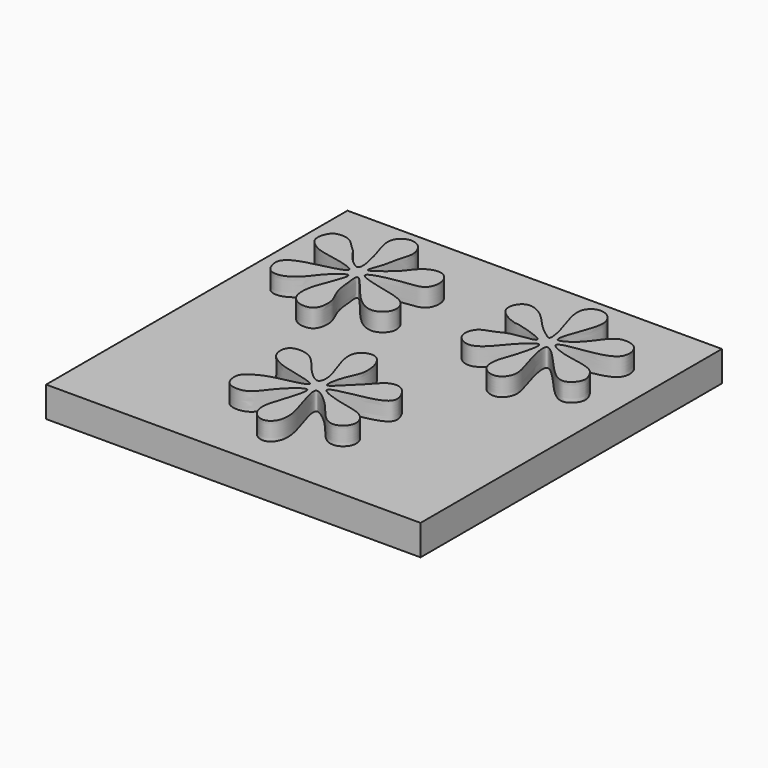
from build123d import *

# Parameters (mm, degrees)
F0_W     = 61.6686008871
F0_H     = 62.0375014842
F1_DEPTH = 5
F3_DEPTH = 3


with BuildPart() as f1:
    # F0 (on Top) → F1 (new body)
    with BuildSketch(Plane.XY):
        with Locations((30.8343004435, 31.0187507421)):
            Rectangle(F0_W, F0_H)
    extrude(amount=F1_DEPTH)

    # F2 (on face) → F3 (join)
    with BuildSketch(Plane.XY.offset(5)):
        with BuildLine():
            add(Edge.make_bspline(
                [(30.2610378712, 18.1788317859), (30.6694376326, 18.3033293103), (30.8441409658, 20.2758487663), (29.436081421, 23.352330329), (28.6371290629, 26.7499078904), (30.1595447152, 28.2024718596), (32.0780980909, 28.3185846369), (33.4174649075, 26.1726571117), (33.5509699835, 23.133562164), (32.1471394579, 21.0665799202), (31.3917621074, 16.8596318665), (33.8152036854, 19.5222808589), (35.9483952613, 21.4357948241), (37.4724454586, 23.4777961557), (39.5340053974, 23.6710773519), (40.8962205835, 22.3894607415), (41.9606208751, 19.5909139481), (38.0360868934, 18.2246613327), (30.6077797037, 17.2297730798), (36.130755049, 15.1684681823), (39.8393223356, 14.7135290076), (41.3898818155, 13.1066233913), (41.5093227228, 11.2932205819), (40.178353632, 9.909838774), (38.2696127607, 9.8828763223), (36.40930663, 11.8386461155), (34.9227457268, 13.9347784432), (31.0762623841, 17.0569034394), (32.1221585048, 13.1947076675), (33.0010019074, 10.6138208786), (33.5708820848, 8.1480670262), (33.1862163447, 6.1750983877), (31.7989409124, 5.0138216146), (29.9565174869, 5.6521023886), (28.8992738324, 7.546711614), (29.4730432127, 10.4288726392), (32.007861684, 17.2304890096), (27.0654947466, 13.0256967026), (25.329408206, 9.6976236146), (21.6587640814, 9.9497959827), (21.0575608149, 12.059671937), (21.2388508432, 13.5324112384), (23.8855215003, 15.0582492532), (26.1989429716, 15.6250449492), (32.2376696547, 16.854106023), (25.1132989962, 18.2314945126), (23.0041909087, 19.0573989907), (21.0950001205, 20.4787945343), (21.1262207767, 23.5599515708), (25.1978553485, 23.4983809184), (27.1539755122, 20.3735051578), (29.69504184, 18.0062922515), (30.2610378712, 18.1788317859)],
                knots=[0, 0, 0, 0, 0.0162899685, 0.0400126991, 0.0620631981, 0.0782630245, 0.0937852343, 0.1122067008, 0.1328629213, 0.1535628453, 0.1738203689, 0.1916241935, 0.2139401904, 0.2329258924, 0.2490800694, 0.2654928029, 0.283733027, 0.3079920842, 0.3359257802, 0.3584117467, 0.3835901545, 0.4005700893, 0.4160980359, 0.4320867288, 0.4479046246, 0.4670849494, 0.4886810702, 0.51077947, 0.5295966746, 0.5513883444, 0.5705503931, 0.5874463719, 0.6026671499, 0.6185443811, 0.6352225373, 0.6577141697, 0.6843723004, 0.7082668288, 0.7330880095, 0.7535314818, 0.7701957358, 0.7843394506, 0.8043631048, 0.8258885351, 0.8486634668, 0.8749619495, 0.8955815317, 0.913316487, 0.9316375359, 0.9527372188, 0.97742394, 1, 1, 1, 1], degree=3))
        make_face()
        with BuildLine():
            add(Edge.make_bspline(
                [(16.2161290646, 43.8556484878), (15.9169376857, 43.8058901334), (16.2063753053, 41.5988475719), (16.4889942075, 38.9923889295), (18.0247508516, 36.6871767793), (17.6138988853, 33.6362007331), (15.8889181393, 33.221309854), (14.3162362862, 33.5558083395), (12.904410524, 35.1434446875), (13.193423289, 38.2311162727), (14.2486092827, 40.6897743425), (15.6501682778, 44.590588523), (12.7437178835, 42.3435166181), (11.5271196433, 40.7933453625), (10.5984480729, 39.533467913), (8.4865141391, 37.8787902716), (6.3088047241, 38.04432193), (5.4797400027, 39.4183485085), (5.2174372547, 41.1057239061), (6.4525168974, 42.3551774816), (8.9274603133, 43.1181843798), (10.9253795313, 43.57637312), (15.5970344792, 44.749606371), (10.8996785535, 46.2079593207), (7.6600213804, 46.4345884232), (4.7517985871, 48.5332163496), (5.6292442987, 51.0907075478), (6.6815261768, 51.8210967819), (8.8950881682, 51.628474744), (9.9612462911, 50.2581359416), (11.2235776179, 49.3070510545), (11.8713757, 47.9671691237), (15.2221585513, 44.7271882441), (14.3797826213, 49.3824027866), (13.5211768205, 51.7389960211), (12.8248310321, 54.2133048509), (13.6711605885, 55.7501971942), (14.936643807, 56.2878953676), (16.1882875887, 56.0707873648), (17.0982998907, 55.3452925522), (18.0494205928, 53.4812502554), (17.0185817302, 51.024287944), (16.8145724366, 48.5013128582), (15.2905544458, 45.3587193461), (18.3386810351, 47.621621725), (19.8290967891, 49.0443907459), (21.1676172461, 51.111425454), (23.8948844736, 52.0409510069), (25.7741205114, 50.0617295024), (25.2174788334, 46.6797633233), (21.900157081, 46.6919505346), (14.8376138268, 45.1814878791), (19.2532801832, 43.5879738153), (24.424878501, 42.721235861), (25.6031363267, 40.9623643561), (25.7104311152, 39.0976546735), (23.5233980641, 37.2721318853), (20.043636041, 38.950363771), (16.7369819856, 43.9422712519), (16.2161290646, 43.8556484878)],
                knots=[0, 0, 0, 0, 0.0158019381, 0.0354299016, 0.0542533266, 0.0727679892, 0.0866013852, 0.1007138906, 0.1164121395, 0.1356584172, 0.1560924648, 0.1744755212, 0.1915845036, 0.2086382192, 0.22277946, 0.2411416236, 0.2569558571, 0.2707400085, 0.2849495179, 0.2992761796, 0.3171223443, 0.3353415169, 0.355094702, 0.3747376464, 0.3971844649, 0.4168763902, 0.4338279292, 0.4463305639, 0.4624435007, 0.4773656646, 0.4910749753, 0.5062491285, 0.5258663755, 0.5453014861, 0.5652180758, 0.5827843067, 0.5970636077, 0.6099731171, 0.6223697618, 0.6344515172, 0.6501207852, 0.6681872248, 0.687722059, 0.7040700991, 0.7216814317, 0.7394877077, 0.7570004341, 0.774960672, 0.7921529304, 0.8105874157, 0.8315763619, 0.8576637451, 0.8759134276, 0.9030403813, 0.9184480222, 0.9330392181, 0.9499877311, 0.9724908998, 1, 1, 1, 1], degree=3))
        make_face()
        with BuildLine():
            add(Edge.make_bspline(
                [(46.0320673883, 46.1067482829), (46.204399819, 46.3021599565), (45.9038506646, 48.4020809982), (44.8421502676, 51.2755048321), (44.0146745822, 54.4877179791), (45.4428888128, 56.1635641884), (47.3917922388, 56.2179018548), (49.0673414855, 54.5184632086), (48.8728329299, 51.7332283898), (46.1629229167, 45.6846625173), (48.7464648696, 46.6726586874), (50.8133228413, 48.6162348357), (52.6841843675, 51.813544907), (55.5493977332, 51.569700574), (56.8860212905, 50.1261745009), (56.8071460689, 47.353007477), (53.3467764741, 46.3919788706), (51.643211455, 46.1771769093), (46.3645225275, 45.356047926), (50.3823440854, 43.5669788944), (53.1679046236, 43.267276347), (55.6290569718, 42.5241223791), (56.3876385689, 41.4735662787), (57.1698881494, 39.7955002355), (55.9176110185, 37.9646666809), (53.5916938116, 37.4051344681), (49.8206336827, 42.2375788612), (46.8919292393, 44.7606666698), (47.3620233433, 41.1128846816), (48.7768523513, 37.3073361041), (49.0157841096, 35.2305515049), (48.0513578303, 33.7106263795), (46.5500333878, 33.2966468613), (44.6259521169, 34.3198926372), (44.3887582809, 36.5998404936), (45.1837252687, 38.6824644374), (45.9754866499, 41.2243422194), (46.6547865884, 44.7340911212), (44.2198371239, 42.7015596737), (43.1136491852, 41.4794991823), (41.4945788357, 39.367756636), (39.1625594854, 37.5644095002), (36.2852764445, 39.2918625387), (36.9724594103, 42.3949377579), (39.3486147845, 42.8097888534), (40.9051162575, 44.0911865393), (47.8932464532, 44.433484857), (40.3969322215, 46.6966733168), (40.1043451286, 46.4114798955), (36.7116478, 47.7850855946), (36.3787563071, 50.1053259942), (37.9194227791, 52.1024019945), (41.0675809172, 50.7627306355), (43.060584631, 48.0651923905), (45.3942136981, 46.2732042058), (45.9464894333, 46.0097094879), (46.0320673883, 46.1067482829)],
                knots=[0, 0, 0, 0, 0.0165371665, 0.0386695709, 0.0595232108, 0.0755328467, 0.091023354, 0.1076840166, 0.128319556, 0.1555355254, 0.1690584949, 0.1899407575, 0.2119932247, 0.2302300221, 0.2460685035, 0.2637834171, 0.2844442849, 0.3025070485, 0.3246044248, 0.3432864094, 0.3649349422, 0.383082859, 0.3962688892, 0.4115304541, 0.4279413004, 0.4439942306, 0.4736443708, 0.4926385071, 0.5109167835, 0.535908721, 0.5525982337, 0.5674573941, 0.5814942383, 0.5978186488, 0.6148100065, 0.6322903664, 0.6529335176, 0.6709175862, 0.6874904782, 0.7039214707, 0.7230849945, 0.7424070619, 0.7614587372, 0.7801317453, 0.7970222185, 0.8156710061, 0.8386625898, 0.8644740732, 0.8744109794, 0.8953646908, 0.9124596144, 0.9290115618, 0.9490545925, 0.9716132296, 0.9917878667, 1, 1, 1, 1], degree=3))
        make_face()
    extrude(amount=F3_DEPTH)


solid = f1.part
